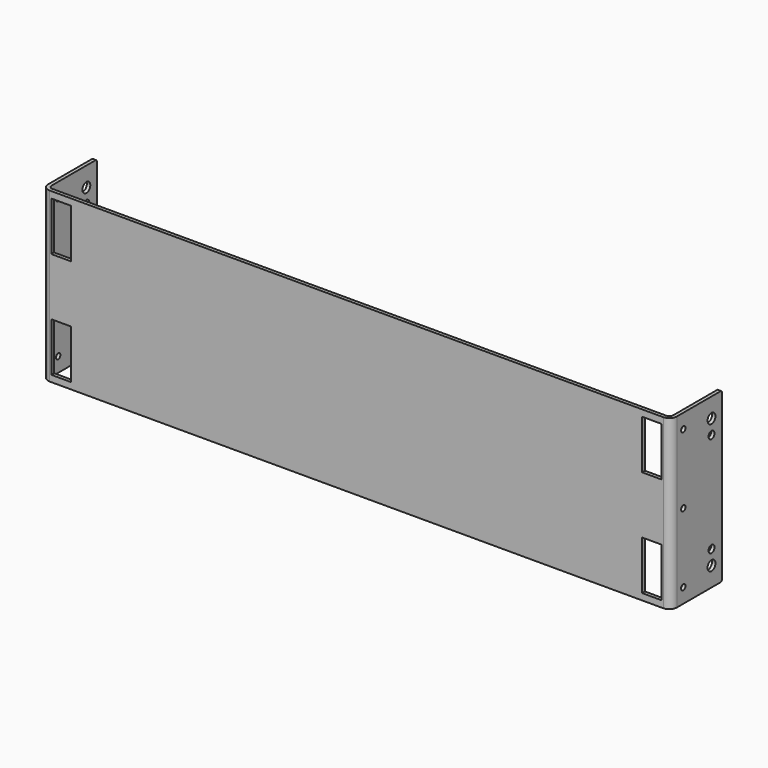
from build123d import *

# Parameters (mm, degrees)
F1_DEPTH = 82.467501
F2_R     = 1.98374
F3_R     = 3.69316
F4_R     = 2.4125
F4_R_2   = 1.8288
F4_R_3   = 1.35255
F5_DEPTH = 308.21884
F6_W     = 9.532925
F6_H     = 24
F7_DEPTH = 31.336894
F8_R     = 0.762


with BuildPart() as f1:
    # F0 (on Top) → F1 (new body)
    with BuildSketch(Plane.XY):
        Polygon((0, 29.627474), (0, 0), (-304.8, 0), (-304.8, 29.627474), (-306.50942, 29.627474), (-306.50942, -1.70942), (1.70942, -1.70942), (1.70942, 29.627474), align=None)
    extrude(amount=F1_DEPTH)

    # F2
    f2_edges = [f1.edges().sort_by_distance(p)[0] for p in [
        (0, 0, 41.23375),
        (-304.8, 0, 41.23375),
    ]]
    fillet(f2_edges, radius=F2_R)

    # F3
    f3_edges = [f1.edges().sort_by_distance(p)[0] for p in [
        (1.70942, -1.70942, 41.23375),
        (-306.50942, -1.70942, 41.23375),
    ]]
    fillet(f3_edges, radius=F3_R)

    # F4 (on face) → F5 (cut, through all)
    with BuildSketch(Plane(origin=(-306.50942, 0, 0), x_dir=(0, -1, 0), z_dir=(-1, 0, 0))):
        with Locations((-23.246224, 9.483746)):
            Circle(F4_R)
        with Locations((-23.246224, 72.983755)):
            Circle(F4_R)
        with Locations((-23.246224, 65.808755)):
            Circle(F4_R_2)
        with Locations((-23.246224, 16.658746)):
            Circle(F4_R_2)
        with Locations((-5.95249, 7.14375)):
            Circle(F4_R_3)
        with Locations((-5.95249, 75.323751)):
            Circle(F4_R_3)
        with Locations((-5.95249, 41.23375)):
            Circle(F4_R_3)
    extrude(amount=-F5_DEPTH, mode=Mode.SUBTRACT)

    # F6 (on face) → F7 (cut, through all)
    with BuildSketch(Plane.XZ.offset(1.70942)):
        with Locations((-7.543952, 15.175)):
            Rectangle(F6_W, F6_H)
        with Locations((-7.543952, 67.292501)):
            Rectangle(F6_W, F6_H)
        with Locations((-297.256048, 67.292501)):
            Rectangle(F6_W, F6_H)
        with Locations((-297.256048, 15.175)):
            Rectangle(F6_W, F6_H)
    extrude(amount=-F7_DEPTH, mode=Mode.SUBTRACT)

    # F8
    f8_edges = [f1.edges().sort_by_distance(p)[0] for p in [
        (0.85471, 29.627474, 82.467501),
        (0.85471, 29.627474, 0),
        (-305.65471, 29.627474, 0),
        (-305.65471, 29.627474, 82.467501),
    ]]
    fillet(f8_edges, radius=F8_R)


solid = f1.part
